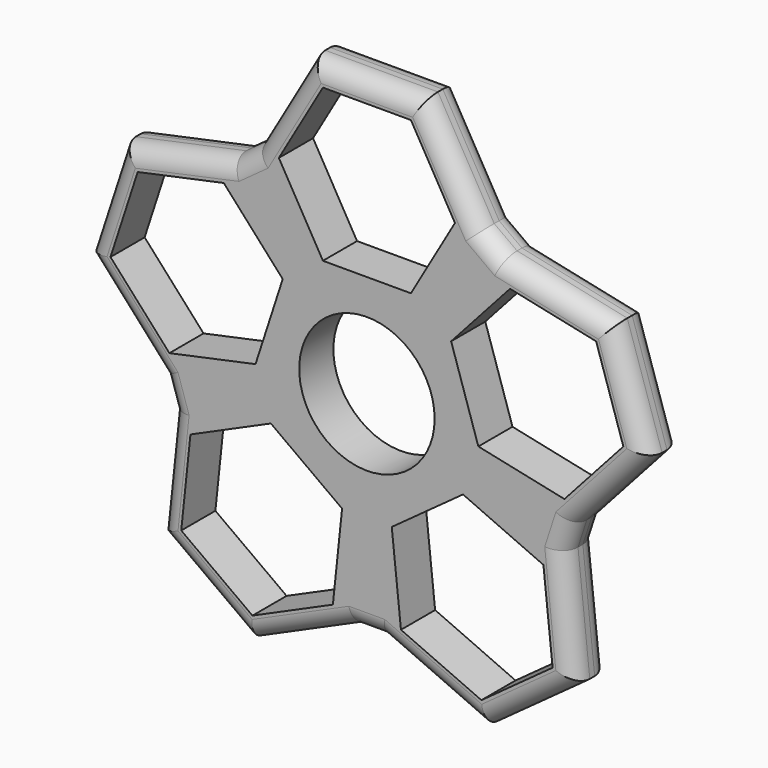
from build123d import *

# Parameters (mm, degrees)
F0_R     = 12.251715
F0_R_2   = 11.1
F1_DEPTH = 7
F2_R     = 3


with BuildPart() as f1:
    # F0 (on Front) → F1 (new body)
    with BuildSketch(Plane.XZ):
        Polygon((18.475209, 29.36019), (9.237604, 13.36019), (-9.237604, 13.36019), (-18.475209, 29.36019), (-22.214047, 26.643765), (-9.851719, 12.91401), (-15.560873, -4.656958), (-33.632353, -8.49817), (-32.204244, -12.893438), (-15.326302, -5.378893), (-0.379544, -16.238348), (-2.310729, -34.612348), (2.310729, -34.612348), (0.379544, -16.238348), (15.326302, -5.378893), (32.204244, -12.893438), (33.632353, -8.49817), (15.560873, -4.656958), (9.851719, 12.91401), (22.214047, 26.643765), align=None)
        Circle(F0_R, mode=Mode.SUBTRACT)
        Polygon((-9.237604, 13.36019), (9.237604, 13.36019), (18.475209, 29.36019), (9.237604, 45.36019), (-9.237604, 45.36019), (-18.475209, 29.36019), align=None)
        Polygon((14.433757, 29.36019), (7.216878, 16.86019), (-7.216878, 16.86019), (-14.433757, 29.36019), (-7.216878, 41.86019), (7.216878, 41.86019), align=None, mode=Mode.SUBTRACT)
        Polygon((40.285528, 22.802553), (22.214047, 26.643765), (9.851719, 12.91401), (15.560873, -4.656958), (33.632353, -8.49817), (45.994681, 5.231586), align=None)
        Polygon((13.804856, 12.073744), (23.462924, 22.800116), (37.581268, 19.799169), (42.041545, 6.071851), (32.383476, -4.654521), (18.265132, -1.653574), align=None, mode=Mode.SUBTRACT)
        Polygon((-9.851719, 12.91401), (-22.214047, 26.643765), (-40.285528, 22.802553), (-45.994681, 5.231586), (-33.632353, -8.49817), (-15.560873, -4.656958), align=None)
        Polygon((-18.265132, -1.653574), (-32.383476, -4.654521), (-42.041545, 6.071851), (-37.581268, 19.799169), (-23.462924, 22.800116), (-13.804856, 12.073744), align=None, mode=Mode.SUBTRACT)
        Polygon((34.13543, -31.267437), (32.204244, -12.893438), (15.326302, -5.378893), (0.379544, -16.238348), (2.310729, -34.612348), (19.188672, -42.126892), align=None)
        Polygon((15.748748, -9.398206), (28.934641, -15.268943), (30.44338, -29.62363), (18.766225, -38.10758), (5.580332, -32.236842), (4.071594, -17.882155), align=None, mode=Mode.SUBTRACT)
        Polygon((-15.326302, -5.378893), (-32.204244, -12.893438), (-34.13543, -31.267437), (-19.188672, -42.126892), (-2.310729, -34.612348), (-0.379544, -16.238348), align=None)
        Polygon((-4.071594, -17.882155), (-5.580332, -32.236842), (-18.766225, -38.10758), (-30.44338, -29.62363), (-28.934641, -15.268943), (-15.748748, -9.398206), align=None, mode=Mode.SUBTRACT)
        Circle(F0_R)
        Circle(F0_R_2, mode=Mode.SUBTRACT)
    extrude(amount=F1_DEPTH)

    # F2
    f2_edges = [f1.edges().sort_by_distance(p)[0] for p in [
        (0, -7, 45.36019),
        (13.856406, -7, 37.36019),
        (31.249787, -7, 24.723159),
        (20.344628, -7, 28.001978),
        (43.140104, -7, 14.01707),
        (39.813517, -7, -1.633292),
        (33.169837, -7, -22.080437),
        (32.918299, -7, -10.695804),
        (26.662051, -7, -36.697165),
        (10.7497, -7, -38.36962),
        (-10.7497, -7, -38.36962),
        (0, -7, -34.612348),
        (-26.662051, -7, -36.697165),
        (-33.169837, -7, -22.080437),
        (-32.918299, -7, -10.695804),
        (-43.140104, -7, 14.01707),
        (-39.813517, -7, -1.633292),
        (-31.249787, -7, 24.723159),
        (-20.344628, -7, 28.001978),
        (-13.856406, -7, 37.36019),
        (-26.662051, 0, -36.697165),
        (-10.7497, 0, -38.36962),
        (0, 0, -34.612348),
        (10.7497, 0, -38.36962),
        (26.662051, 0, -36.697165),
        (33.169837, 0, -22.080437),
        (39.813517, 0, -1.633292),
        (43.140104, 0, 14.01707),
        (31.249787, 0, 24.723159),
        (32.918299, 0, -10.695804),
        (20.344628, 0, 28.001978),
        (13.856406, 0, 37.36019),
        (0, 0, 45.36019),
        (-13.856406, 0, 37.36019),
        (-20.344628, 0, 28.001978),
        (-31.249787, 0, 24.723159),
        (-43.140104, 0, 14.01707),
        (-33.169837, 0, -22.080437),
        (-39.813517, 0, -1.633292),
        (-32.918299, 0, -10.695804),
    ]]
    fillet(f2_edges, radius=F2_R)


solid = f1.part
